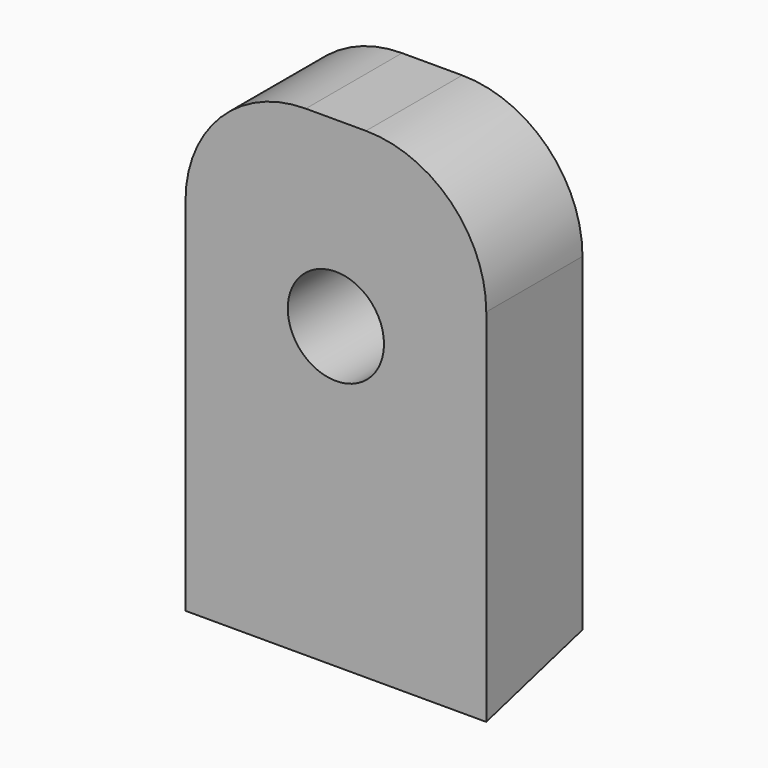
from build123d import *

# Parameters (mm, degrees)
F0_W     = 25
F0_H     = 40
F0_R     = 4
F1_DEPTH = 10
F3_DEPTH = 25.001
F4_R     = 10


with BuildPart() as f1:
    # F0 (on Front) → F1 (new body)
    with BuildSketch(Plane.XZ):
        with Locations((0, -4.883111)):
            Rectangle(F0_W, F0_H)
        Circle(F0_R, mode=Mode.SUBTRACT)
    extrude(amount=F1_DEPTH)

    # F2 (on face) → F3 (cut, through all)
    with BuildSketch(Plane.YZ.offset(12.5)):
        Polygon((-10, -24.883111), (0, -24.883111), (0, -22.203619), align=None)
    extrude(amount=-F3_DEPTH, mode=Mode.SUBTRACT)

    # F4
    f4_edges = [f1.edges().sort_by_distance(p)[0] for p in [
        (12.5, -5, 15.116889),
        (-12.5, -5, 15.116889),
    ]]
    fillet(f4_edges, radius=F4_R)


solid = f1.part
